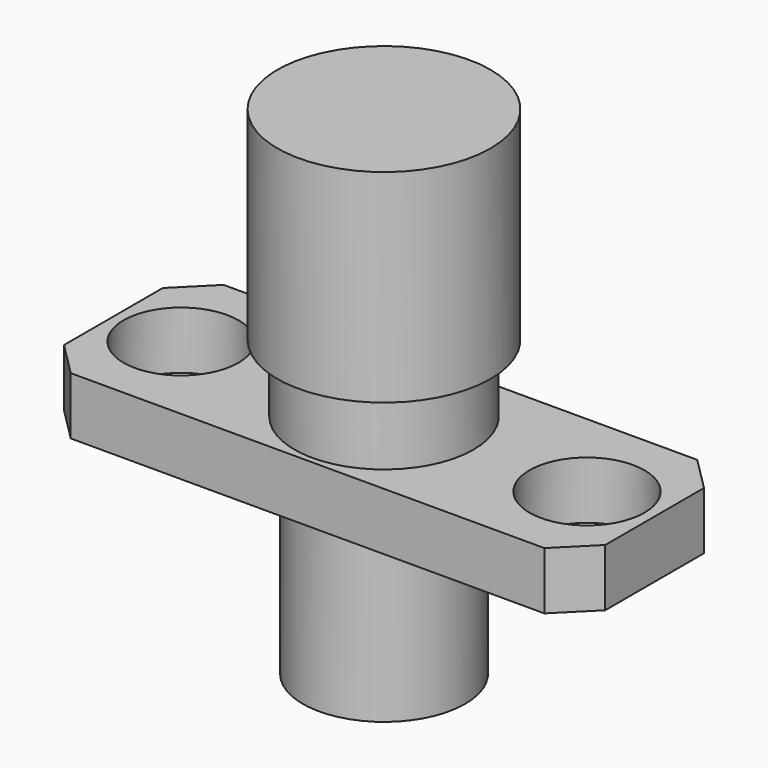
from build123d import *

# Parameters (mm, degrees)
F0_R     = 1.7
F0_R_2   = 2.65
F1_DEPTH = 1.7
F2_R     = 2.65
F3_DEPTH = 2
F4_R     = 3.15
F5_DEPTH = 6
F6_SIZE  = 1
F7_R     = 2.4
F8_DEPTH = 5


with BuildPart() as f1:
    # F0 (on Top) → F1 (new body)
    with BuildSketch(Plane.XY):
        with BuildLine():
            Line((1.393512, -2.825), (8, -2.825))
            Line((8, -2.825), (8, 2.825))
            Line((8, 2.825), (1.393512, 2.825))
            ThreePointArc((1.393512, 2.825), (2.675076, 1.663271), (3.15, 0))
            ThreePointArc((3.15, 0), (2.675076, -1.663271), (1.393512, -2.825))
        make_face()
        with Locations((6, 0)):
            Circle(F0_R, mode=Mode.SUBTRACT)
        with BuildLine():
            Line((-8, -2.825), (-1.393512, -2.825))
            ThreePointArc((-1.393512, -2.825), (-3.15, 0), (-1.393512, 2.825))
            Line((-1.393512, 2.825), (-8, 2.825))
            Line((-8, 2.825), (-8, -2.825))
        make_face()
        with Locations((-6, 0)):
            Circle(F0_R, mode=Mode.SUBTRACT)
        with BuildLine():
            Line((-1.393512, -2.825), (1.393512, -2.825))
            ThreePointArc((1.393512, -2.825), (2.675076, -1.663271), (3.15, 0))
            ThreePointArc((3.15, 0), (2.675076, 1.663271), (1.393512, 2.825))
            Line((1.393512, 2.825), (-1.393512, 2.825))
            ThreePointArc((-1.393512, 2.825), (-3.15, 0), (-1.393512, -2.825))
        make_face()
        Circle(F0_R_2, mode=Mode.SUBTRACT)
        Circle(F0_R_2)
    extrude(amount=F1_DEPTH)

    # F2 (on face) → F3 (join)
    with BuildSketch(Plane.XY.offset(1.7)):
        Circle(F2_R)
    extrude(amount=F3_DEPTH)

    # F4 (on face) → F5 (join)
    with BuildSketch(Plane.XY.offset(3.7)):
        Circle(F4_R)
    extrude(amount=F5_DEPTH)

    # F6
    f6_edges = [f1.edges().sort_by_distance(p)[0] for p in [
        (-8, -2.825, 0.85),
        (-8, 2.825, 0.85),
        (8, -2.825, 0.85),
        (8, 2.825, 0.85),
    ]]
    chamfer(f6_edges, length=F6_SIZE)

    # F7 (on face) → F8 (join)
    with BuildSketch(Plane.XY):
        Circle(F7_R)
    extrude(amount=-F8_DEPTH)


solid = f1.part
